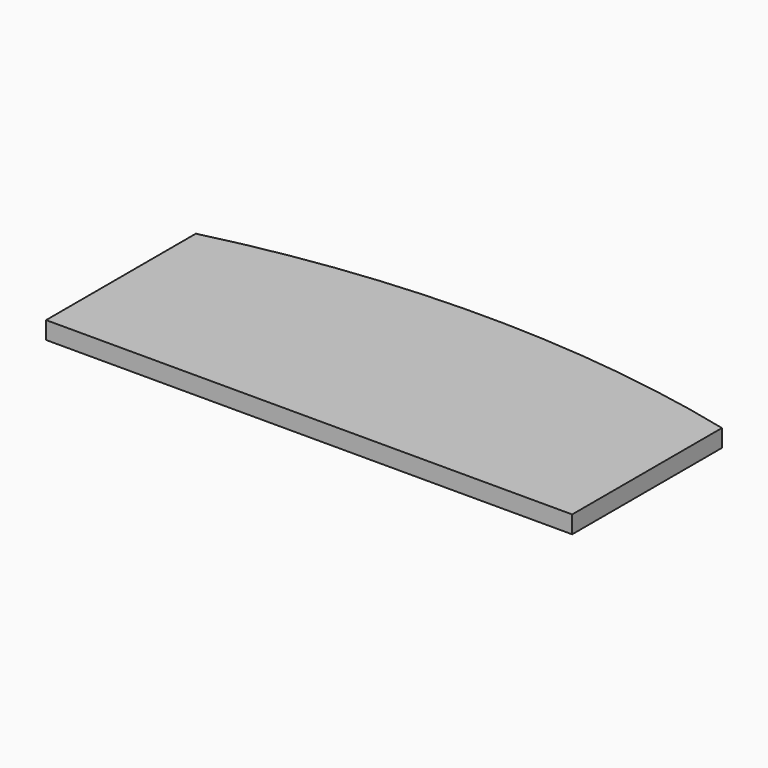
from build123d import *

# Parameters (mm, degrees)
CYLINDER001_R     = 125
CYLINDER001_DEPTH = 10
BOX001_W          = 60
BOX001_H          = 30
BOX001_DEPTH      = 2


with BuildPart() as cylinder001:
    # Cylinder001 → Cylinder001 (new body)
    with BuildSketch(Plane.XY):
        Circle(CYLINDER001_R)
    extrude(amount=CYLINDER001_DEPTH)


with BuildPart() as common:
    # Box001 → Box001 (new body)
    with BuildSketch(Plane(origin=(-30, 100, 0), x_dir=(1, 0, 0), z_dir=(0, 0, 1))):
        with Locations((30, 15)):
            Rectangle(BOX001_W, BOX001_H)
    extrude(amount=BOX001_DEPTH)

    # Common: intersect Cylinder001
    add(cylinder001.part, mode=Mode.INTERSECT)


solid = common.part
